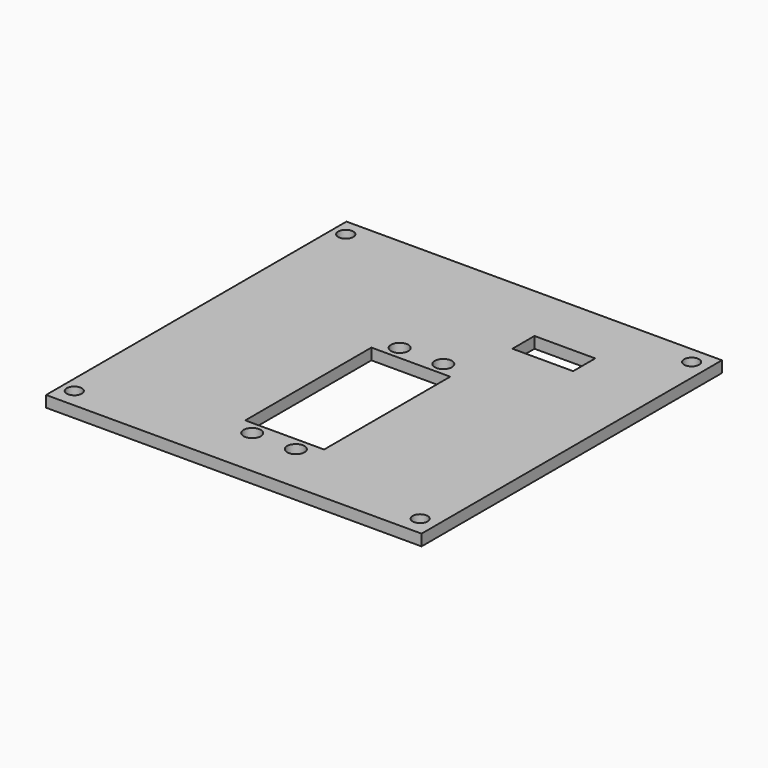
from build123d import *

# Parameters (mm, degrees)
F0_W     = 100
F0_H     = 100
F0_R     = 2.3
F0_W_2   = 21
F0_H_2   = 42
F0_W_3   = 16.1784952506
F0_H_3   = 7.3538627476
F1_DEPTH = 3
F2_D     = 4


with BuildPart() as f1:
    # F0 (on Top) → F1 (new body)
    with BuildSketch(Plane.XY):
        Rectangle(F0_W, F0_H)
        with Locations((-5.8095501736, -36.6191763401)):
            Circle(F0_R, mode=Mode.SUBTRACT)
        with Locations((5.8095501736, -36.6191763401)):
            Circle(F0_R, mode=Mode.SUBTRACT)
        with Locations((0, -12.0689586699)):
            Rectangle(F0_W_2, F0_H_2, mode=Mode.SUBTRACT)
        with Locations((-5.8095501736, 12.4812590003)):
            Circle(F0_R, mode=Mode.SUBTRACT)
        with Locations((5.8095501736, 12.4812590003)):
            Circle(F0_R, mode=Mode.SUBTRACT)
        with Locations((20.8114259876, 30.5185215548)):
            Rectangle(F0_W_3, F0_H_3, mode=Mode.SUBTRACT)
    extrude(amount=F1_DEPTH)

    # F2 (through all)
    with Locations(Plane(origin=(0, 0, 0), x_dir=(1, 0, 0), z_dir=(0, 0, -1))):
        with Locations((-46.5523190796, -45.4571153969), (45.5647929572, -45.4571153969), (45.5647929572, 44.9199862778), (-46.5523190796, 44.9199862778)):
            Hole(F2_D / 2)


solid = f1.part
